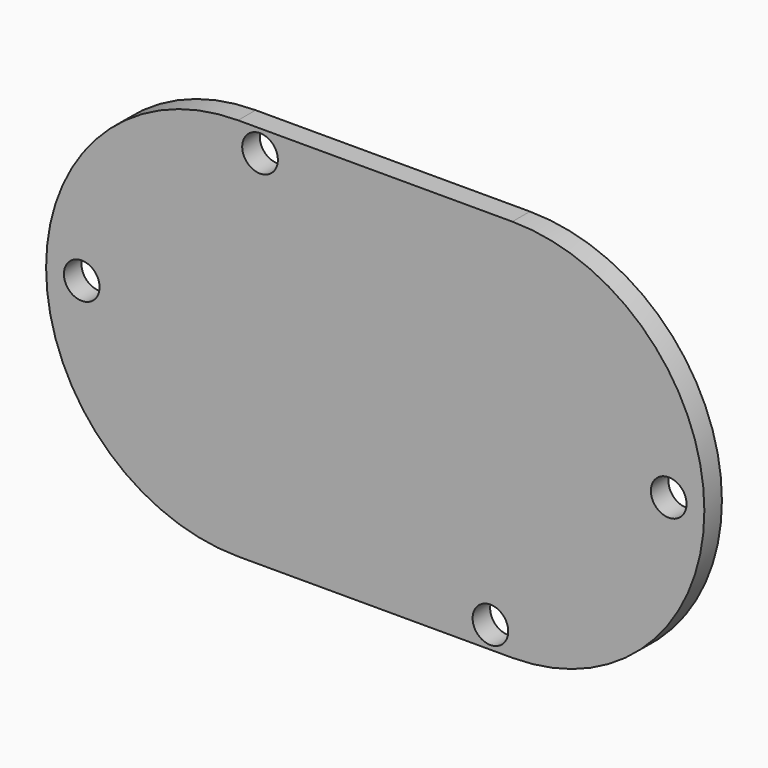
from build123d import *

# Parameters (mm, degrees)
F1_DEPTH = 4
F2_R     = 3.25
F3_DEPTH = 4.001


with BuildPart() as f1:
    # F0 (on Front) → F1 (new body)
    with BuildSketch(Plane.XZ):
        with BuildLine():
            Line((25, 35), (-25, 35))
            ThreePointArc((-25, 35), (-60, 0), (-25, -35))
            Line((-25, -35), (25, -35))
            ThreePointArc((25, -35), (60, 0), (25, 35))
        make_face()
    extrude(amount=F1_DEPTH)

    # F2 (on Front) → F3 (cut, through all)
    with BuildSketch(Plane.XZ):
        with Locations((-21, 31)):
            Circle(F2_R)
        with Locations((21, -31)):
            Circle(F2_R)
        with Locations((53.5, 0)):
            Circle(F2_R)
        with Locations((-53.5, 0)):
            Circle(F2_R)
    extrude(amount=F3_DEPTH, mode=Mode.SUBTRACT)


solid = f1.part
